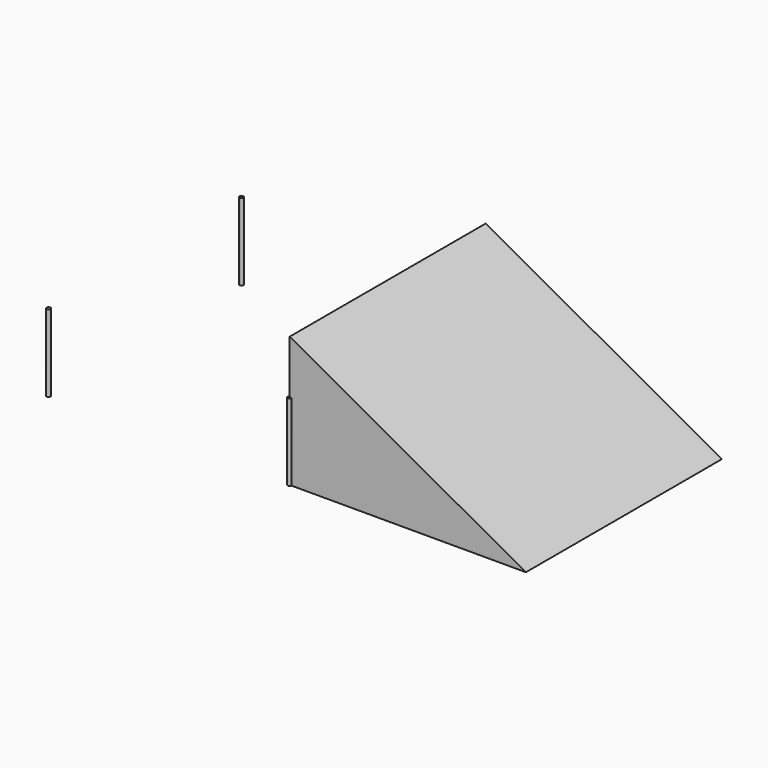
from build123d import *

# Parameters (mm, degrees)
F1_DEPTH = 400
F3_DEPTH = 1270


with BuildPart() as f1:
    # F0 (on Top) → F1 (new body)
    with BuildSketch(Plane.XY):
        with BuildLine():
            Line((0, 1250), (0, 1240))
            ThreePointArc((0, 1240), (7.071068, 1242.928932), (10, 1250))
            ThreePointArc((10, 1250), (0, 1260), (-10, 1250))
            Line((-10, 1250), (0, 1250))
        make_face()
        with BuildLine():
            ThreePointArc((-10, 1250), (-7.071068, 1242.928932), (0, 1240))
            Line((0, 1240), (0, 1250))
            Line((0, 1250), (-10, 1250))
        make_face()
        with BuildLine():
            Line((-1250, 1250), (-1240, 1250))
            ThreePointArc((-1240, 1250), (-1257.071068, 1257.071068), (-1250, 1240))
            Line((-1250, 1240), (-1250, 1250))
        make_face()
        with BuildLine():
            ThreePointArc((-1250, 1240), (-1242.928932, 1242.928932), (-1240, 1250))
            Line((-1240, 1250), (-1250, 1250))
            Line((-1250, 1250), (-1250, 1240))
        make_face()
        with BuildLine():
            ThreePointArc((-1250, 10), (-1257.071068, -7.071068), (-1240, 0))
            Line((-1240, 0), (-1250, 0))
            Line((-1250, 0), (-1250, 10))
        make_face()
        with BuildLine():
            Line((-1250, 0), (-1240, 0))
            ThreePointArc((-1240, 0), (-1242.928932, 7.071068), (-1250, 10))
            Line((-1250, 10), (-1250, 0))
        make_face()
        with BuildLine():
            Line((0, 10), (0, 0))
            Line((0, 0), (-10, 0))
            ThreePointArc((-10, 0), (0, -10), (10, 0))
            ThreePointArc((10, 0), (7.071068, 7.071068), (0, 10))
        make_face()
        with BuildLine():
            Line((-10, 0), (0, 0))
            Line((0, 0), (0, 10))
            ThreePointArc((0, 10), (-7.071068, 7.071068), (-10, 0))
        make_face()
    extrude(amount=F1_DEPTH)


with BuildPart() as f3:
    # F2 (on Front) → F3 (new body)
    with BuildSketch(Plane.XZ):
        Polygon((0, 400.341839), (0, 0), (1224.352837, 0), (0, 677.05965), (0, 641.092658), align=None)
    extrude(amount=-F3_DEPTH)


solid = Compound([f1.part, f3.part])
